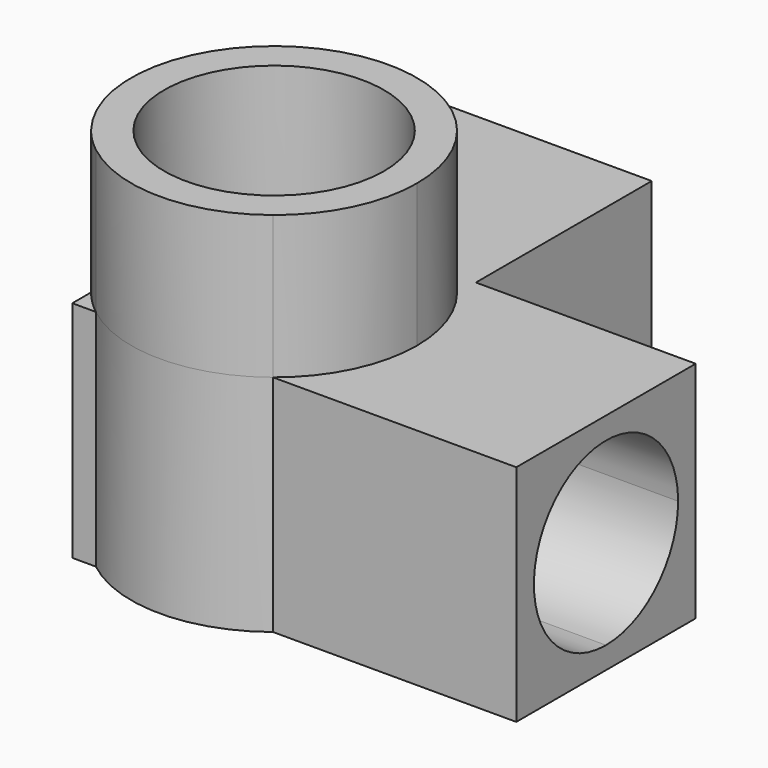
from build123d import *

# Parameters (mm, degrees)
F1_DEPTH = 20.4
F4_DEPTH = 20
F5_DEPTH = 20
F7_DEPTH = 13
F8_DEPTH = 20.4
F9_DEPTH = 20.4


with BuildPart() as f1:
    # F0 (on Top) → F1 (new body)
    with BuildSketch(Plane.XY):
        Polygon((0, 40.4), (0, 0), (40.4, 0), (40.4, 20.4), (20.4, 20.4), (20.4, 40.4), align=None)
    extrude(amount=F1_DEPTH)

    # F3 (on face) → F4 (cut)
    with BuildSketch(Plane(origin=(0, 40.4, 0), x_dir=(-1, 0, 0), z_dir=(0, 1, 0))):
        with BuildLine():
            Line((-10.2, 10.2), (-2, 10.2))
            ThreePointArc((-2, 10.2), (-15.9982756057, 15.9982756057), (-10.2, 2))
            Line((-10.2, 2), (-10.2, 10.2))
        make_face()
        with BuildLine():
            ThreePointArc((-10.2, 2), (-4.4017243943, 4.4017243943), (-2, 10.2))
            Line((-2, 10.2), (-10.2, 10.2))
            Line((-10.2, 10.2), (-10.2, 2))
        make_face()
    extrude(amount=-F4_DEPTH, mode=Mode.SUBTRACT)

    # F2 (on face) → F5 (cut)
    with BuildSketch(Plane.YZ.offset(40.4)):
        with BuildLine():
            ThreePointArc((10.2, 2), (15.9982756057, 4.4017243943), (18.4, 10.2))
            Line((18.4, 10.2), (10.2, 10.2))
            Line((10.2, 10.2), (10.2, 2))
        make_face()
        with BuildLine():
            Line((10.2, 10.2), (18.4, 10.2))
            ThreePointArc((18.4, 10.2), (4.4017243943, 15.9982756057), (10.2, 2))
            Line((10.2, 2), (10.2, 10.2))
        make_face()
    extrude(amount=-F5_DEPTH, mode=Mode.SUBTRACT)

    # F6 (on face) → F7 (join)
    with BuildSketch(Plane.XY.offset(20.4)):
        with BuildLine():
            Line((18.2597766718, 0), (2.1402233282, 0))
            ThreePointArc((2.1402233282, 0), (10.2, -2.8), (18.2597766718, 0))
        make_face()
        with BuildLine():
            ThreePointArc((0, 18.2597766718), (-2.8, 10.2), (0, 2.1402233282))
            Line((0, 2.1402233282), (0, 18.2597766718))
        make_face()
        with BuildLine():
            Line((3.1289321881, 3.1289321881), (1.0076118446, 1.0076118446))
            ThreePointArc((1.0076118446, 1.0076118446), (1.5592177314, 0.4872824716), (2.1402233282, 0))
            Line((2.1402233282, 0), (18.2597766718, 0))
            ThreePointArc((18.2597766718, 0), (21.8999379642, 4.5333032874), (23.2, 10.2))
            ThreePointArc((23.2, 10.2), (22.2104339226, 15.1748846207), (19.3923881554, 19.3923881554))
            Line((19.3923881554, 19.3923881554), (17.2710678119, 17.2710678119))
            ThreePointArc((17.2710678119, 17.2710678119), (19.4387953251, 14.0268343237), (20.2, 10.2))
            ThreePointArc((20.2, 10.2), (14.0268343237, 0.9612046749), (3.1289321881, 3.1289321881))
        make_face()
        with BuildLine():
            ThreePointArc((0, 2.1402233282), (0.4872824716, 1.5592177314), (1.0076118446, 1.0076118446))
            Line((1.0076118446, 1.0076118446), (3.1289321881, 3.1289321881))
            ThreePointArc((3.1289321881, 3.1289321881), (3.1289321881, 17.2710678119), (17.2710678119, 17.2710678119))
            Line((17.2710678119, 17.2710678119), (19.3923881554, 19.3923881554))
            ThreePointArc((19.3923881554, 19.3923881554), (9.4420273089, 23.177884165), (0, 18.2597766718))
            Line((0, 18.2597766718), (0, 2.1402233282))
        make_face()
    extrude(amount=F7_DEPTH)

    # F6 (on face) → F8 (join)
    with BuildSketch(Plane.XY.offset(20.4)):
        with BuildLine():
            Line((18.2597766718, 0), (2.1402233282, 0))
            ThreePointArc((2.1402233282, 0), (10.2, -2.8), (18.2597766718, 0))
        make_face()
    extrude(amount=-F8_DEPTH)

    # F6 (on face) → F9 (join)
    with BuildSketch(Plane.XY.offset(20.4)):
        with BuildLine():
            ThreePointArc((0, 18.2597766718), (-2.8, 10.2), (0, 2.1402233282))
            Line((0, 2.1402233282), (0, 18.2597766718))
        make_face()
    extrude(amount=-F9_DEPTH)


solid = f1.part
